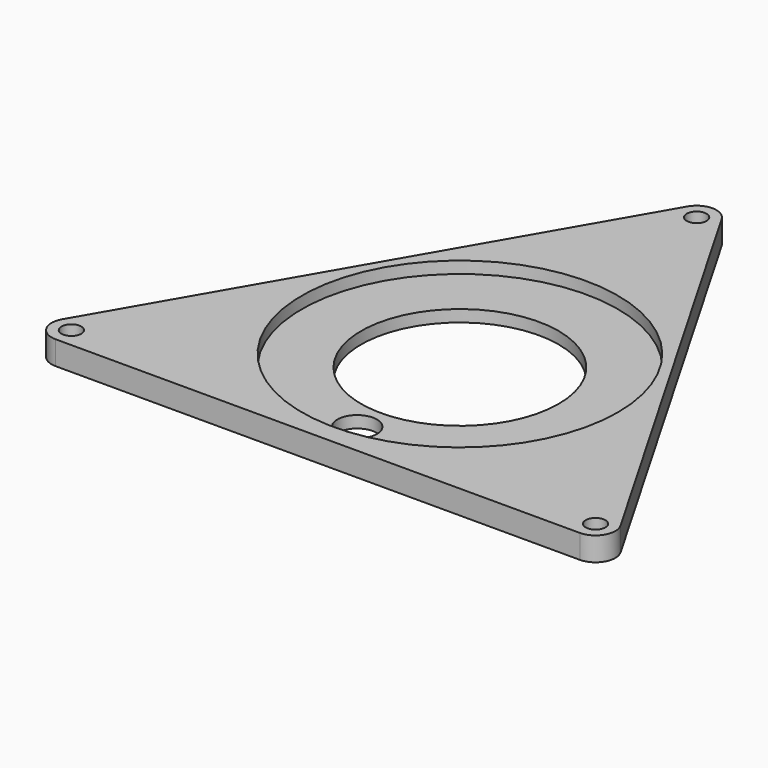
from build123d import *

# Parameters (mm, degrees)
F0_R     = 2.5
F1_DEPTH = 6
F2_R     = 40
F3_DEPTH = 3
F4_R     = 25
F5_DEPTH = 25
F6_R     = 5
F7_DEPTH = 25


with BuildPart() as f1:
    # F0 (on Top) → F1 (new body)
    with BuildSketch(Plane.XY):
        with BuildLine():
            ThreePointArc((4.330127, 72.403811), (0, 74.903811), (-4.330127, 72.403811))
            Line((-4.330127, 72.403811), (-70.669873, -42.5))
            ThreePointArc((-70.669873, -42.5), (-70.669873, -47.5), (-66.339746, -50))
            Line((-66.339746, -50), (66.339746, -50))
            ThreePointArc((66.339746, -50), (70.669873, -47.5), (70.669873, -42.5))
            Line((70.669873, -42.5), (4.330127, 72.403811))
        make_face()
        with Locations((-66.339746, -45)):
            Circle(F0_R, mode=Mode.SUBTRACT)
        with Locations((66.339746, -45)):
            Circle(F0_R, mode=Mode.SUBTRACT)
        with Locations((0, 69.903811)):
            Circle(F0_R, mode=Mode.SUBTRACT)
    extrude(amount=F1_DEPTH)

    # F2 (on face) → F3 (cut)
    with BuildSketch(Plane.XY.offset(6)):
        with Locations((0, -5)):
            Circle(F2_R)
    extrude(amount=-F3_DEPTH, mode=Mode.SUBTRACT)

    # F4 (on face) → F5 (cut)
    with BuildSketch(Plane.XY.offset(3)):
        with Locations((0, -5)):
            Circle(F4_R)
    extrude(amount=-F5_DEPTH, mode=Mode.SUBTRACT)

    # F6 (on face) → F7 (cut)
    with BuildSketch(Plane.XY.offset(3)):
        with Locations((0, -37.5)):
            Circle(F6_R)
    extrude(amount=-F7_DEPTH, mode=Mode.SUBTRACT)


solid = f1.part
